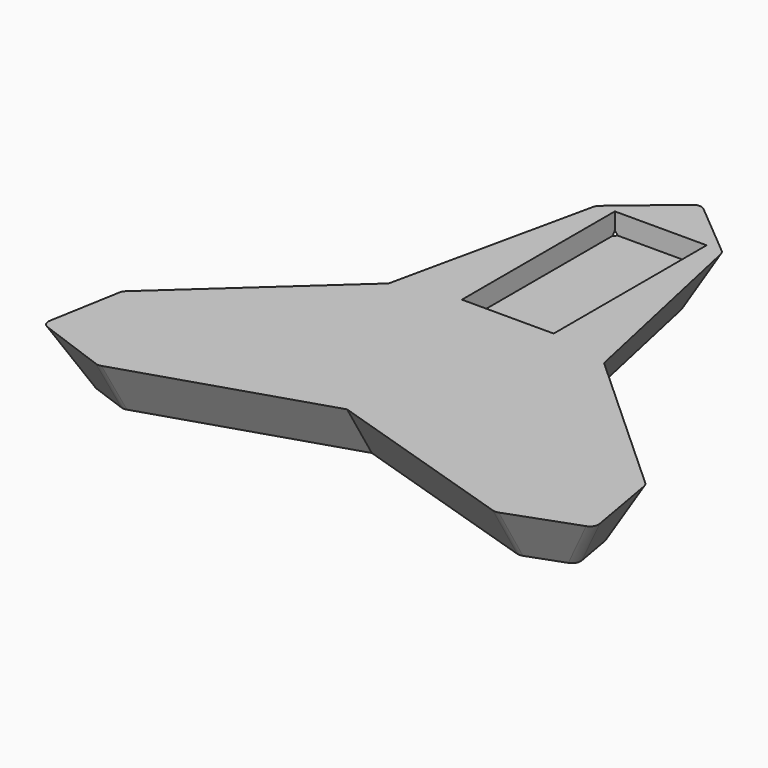
from build123d import *

# Parameters (mm, degrees)
F0_R     = 10
F1_DEPTH = 10
F1_TAPER = -30
F2_R     = 2
F3_W     = 18
F3_H     = 37.5
F4_DEPTH = 4


with BuildPart() as f1:
    # F0 (on Top) → F1 (new body)
    with BuildSketch(Plane.XY):
        Polygon((7.1782154391, 48.9767620725), (0, 55), (-7.1782154391, 48.9767620725), (-15.8771324027, 9.1666666667), (-46.0042278695, -18.2718641122), (-47.6313972081, -27.5), (-38.8260124304, -30.7048979604), (0, -18.3333333333), (38.8260124304, -30.7048979604), (47.6313972081, -27.5), (46.0042278695, -18.2718641122), (15.8771324027, 9.1666666667), align=None)
        Circle(F0_R, mode=Mode.SUBTRACT)
        Circle(F0_R)
    extrude(amount=F1_DEPTH, taper=F1_TAPER)

    # F2
    f2_edges = [f1.edges().sort_by_distance(p)[0] for p in [
        (0, 58.768386, 5),
        (9.788193, 50.555117, 5),
        (-9.788193, 50.555117, 5),
        (48.676112, -16.800735, 5),
        (50.894915, -29.384193, 5),
        (38.887919, -33.754382, 5),
        (-48.676112, -16.800735, 5),
        (-50.894915, -29.384193, 5),
        (-38.887919, -33.754382, 5),
    ]]
    fillet(f2_edges, radius=F2_R)

    # F3 (on face) → F4 (cut)
    with BuildSketch(Plane.XY.offset(10)):
        with Locations((0, 33.75)):
            Rectangle(F3_W, F3_H)
    extrude(amount=-F4_DEPTH, mode=Mode.SUBTRACT)


solid = f1.part
